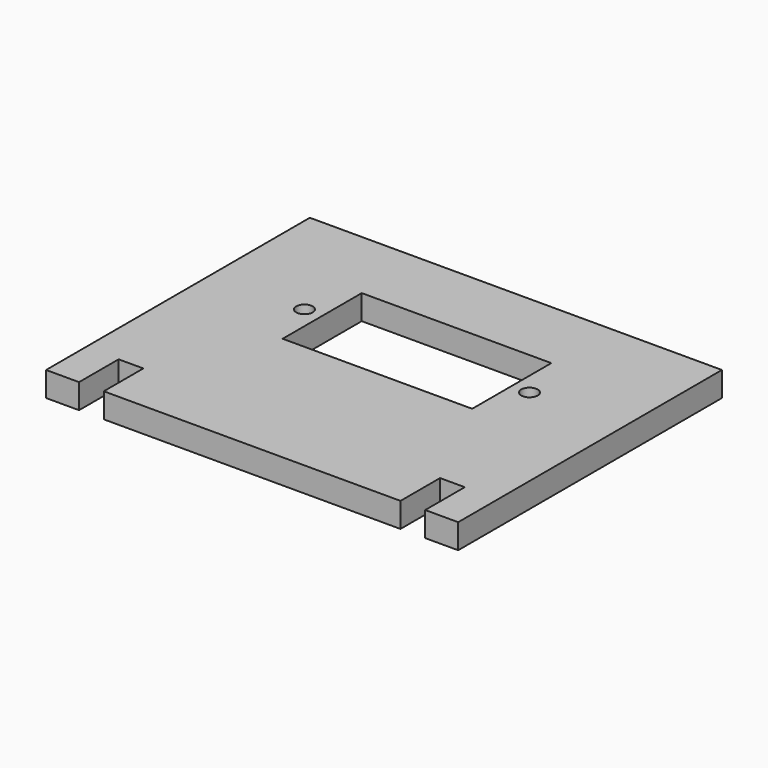
from build123d import *

# Parameters (mm, degrees)
F0_W     = 50
F0_H     = 40
F1_DEPTH = 1.5
F2_W     = 23
F2_H     = 12
F2_R     = 1
F3_DEPTH = 25
F4_W     = 3
F4_H     = 6
F5_DEPTH = 25


with BuildPart() as f1:
    # F0 (on Top) → F1 (new body, symmetric)
    with BuildSketch(Plane.XY):
        with Locations((0, -5)):
            Rectangle(F0_W, F0_H)
    extrude(amount=F1_DEPTH, both=True)

    # F2 (on face) → F3 (cut)
    with BuildSketch(Plane.XY.offset(1.5)):
        Rectangle(F2_W, F2_H)
        with Locations((13.65, 0)):
            Circle(F2_R)
        with Locations((-13.65, 0)):
            Circle(F2_R)
    extrude(amount=-F3_DEPTH, mode=Mode.SUBTRACT)

    # F4 (on face) → F5 (cut)
    with BuildSketch(Plane.XY.offset(1.5)):
        with Locations((-19.5, -22)):
            Rectangle(F4_W, F4_H)
        with Locations((19.5, -22)):
            Rectangle(F4_W, F4_H)
    extrude(amount=-F5_DEPTH, mode=Mode.SUBTRACT)


solid = f1.part
